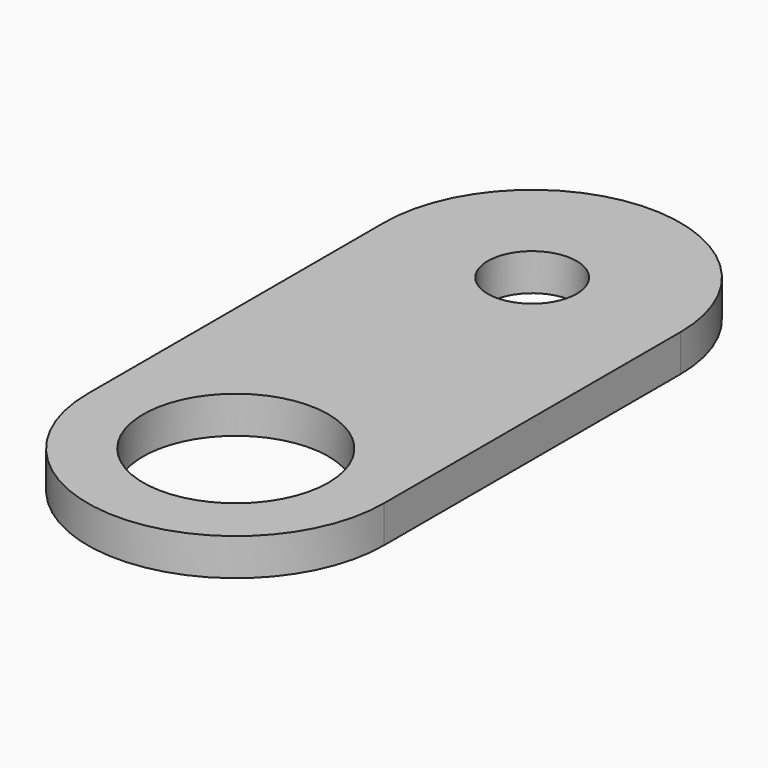
from build123d import *

# Parameters (mm, degrees)
F0_R     = 3.175
F0_R_2   = 1.524
F1_DEPTH = 1.27


with BuildPart() as f1:
    # F0 (on Top) → F1 (new body)
    with BuildSketch(Plane.XY):
        with BuildLine():
            ThreePointArc((5.08, 6.35), (0, 11.43), (-5.08, 6.35))
            Line((-5.08, 6.35), (-5.08, -6.35))
            ThreePointArc((-5.08, -6.35), (0, -11.43), (5.08, -6.35))
            Line((5.08, -6.35), (5.08, 6.35))
        make_face()
        with Locations((0, -6.35)):
            Circle(F0_R, mode=Mode.SUBTRACT)
        with Locations((0, 6.35)):
            Circle(F0_R_2, mode=Mode.SUBTRACT)
    extrude(amount=F1_DEPTH)


solid = f1.part
